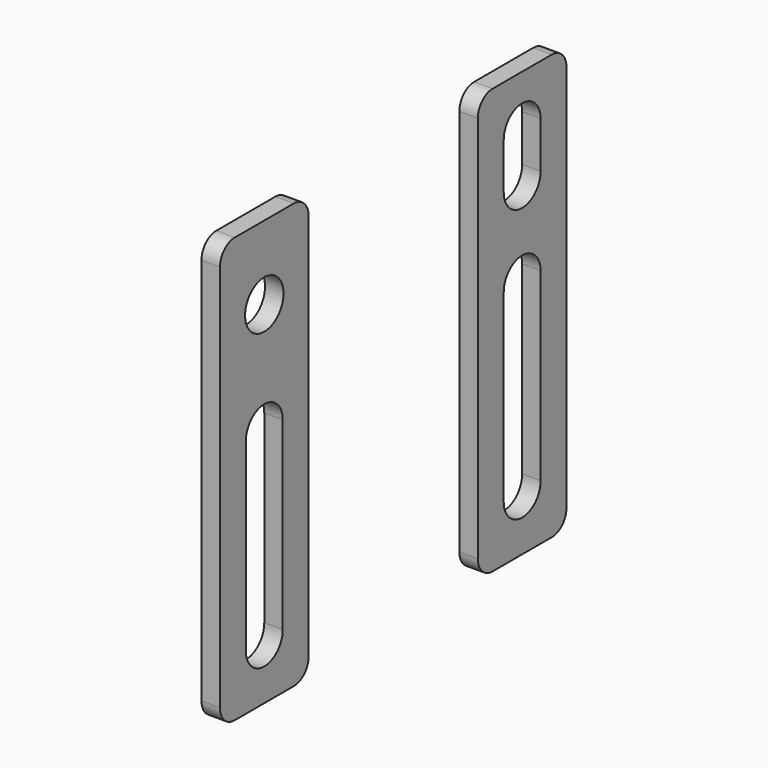
from build123d import *

# Parameters (mm, degrees)
F0_W     = 19.05
F0_H     = 73.025
F0_R     = 4.1275
F0_W_2   = 19.050001
F1_DEPTH = 3.175
F2_R     = 3.175


with BuildPart() as f1:
    # F0 (on Right) → F1 (new body)
    with BuildSketch(Plane.YZ):
        with Locations((-35.49191, 13.582038)):
            Rectangle(F0_W, F0_H)
        with BuildLine():
            Line((-39.45431, -13.405462), (-39.45431, 18.344538))
            ThreePointArc((-39.45431, 18.344538), (-35.49191, 22.306938), (-31.52951, 18.344538))
            Line((-31.52951, 18.344538), (-31.52951, -13.405462))
            ThreePointArc((-31.52951, -13.405462), (-35.49191, -17.367862), (-39.45431, -13.405462))
        make_face(mode=Mode.SUBTRACT)
        with Locations((-35.49191, 37.394538)):
            Circle(F0_R, mode=Mode.SUBTRACT)
        with Locations((19.903481, 13.582038)):
            Rectangle(F0_W_2, F0_H)
        with BuildLine():
            Line((15.941081, -13.405462), (15.941081, 18.344538))
            ThreePointArc((15.941081, 18.344538), (19.903481, 22.306938), (23.865881, 18.344538))
            Line((23.865881, 18.344538), (23.865881, -13.405462))
            ThreePointArc((23.865881, -13.405462), (19.903481, -17.367862), (15.941081, -13.405462))
        make_face(mode=Mode.SUBTRACT)
        with BuildLine():
            Line((15.941081, 33.432138), (15.941081, 41.356938))
            ThreePointArc((15.941081, 41.356938), (19.903481, 45.319338), (23.865881, 41.356938))
            Line((23.865881, 41.356938), (23.865881, 33.432138))
            ThreePointArc((23.865881, 33.432138), (19.903481, 29.469738), (15.941081, 33.432138))
        make_face(mode=Mode.SUBTRACT)
    extrude(amount=F1_DEPTH)

    # F2
    f2_edges = [f1.edges().sort_by_distance(p)[0] for p in [
        (1.5875, -45.01691, 50.094538),
        (1.5875, -25.96691, 50.094538),
        (1.5875, 10.37848, 50.094538),
        (1.5875, 29.428481, 50.094538),
        (1.5875, -45.01691, -22.930462),
        (1.5875, -25.96691, -22.930462),
        (1.5875, 10.37848, -22.930462),
        (1.5875, 29.428481, -22.930462),
    ]]
    fillet(f2_edges, radius=F2_R)


solid = f1.part
